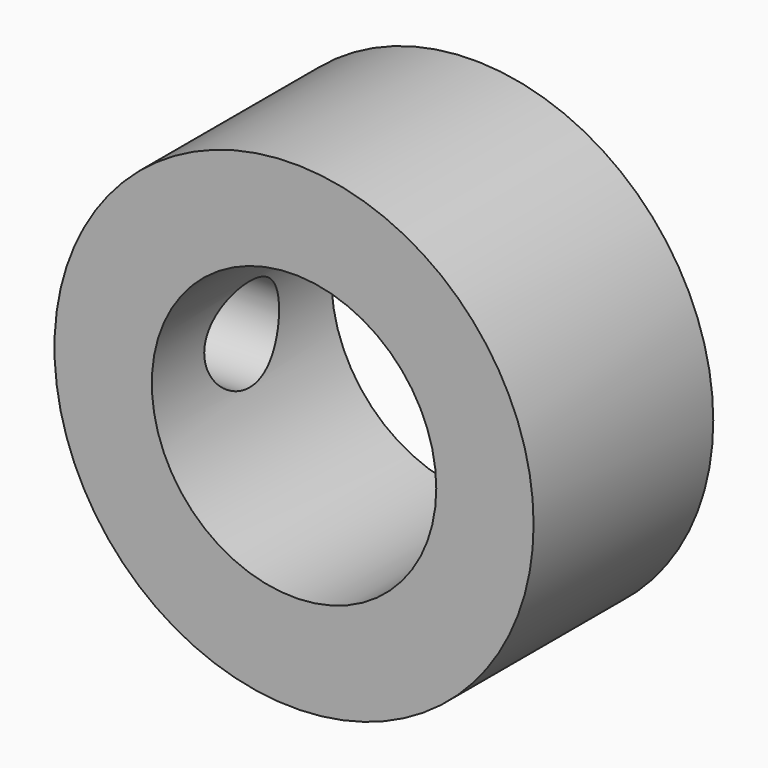
from build123d import *

# Parameters (mm, degrees)
F0_R     = 6.4
F0_R_2   = 3.8
F1_DEPTH = 3
F3_D     = 2.5
F3_DEPTH = 6.401


with BuildPart() as f1:
    # F0 (on Front) → F1 (new body, symmetric)
    with BuildSketch(Plane.XZ):
        Circle(F0_R)
        Circle(F0_R_2, mode=Mode.SUBTRACT)
    extrude(amount=F1_DEPTH, both=True)

    # F3 (through all, one way)
    with BuildSketch(Plane.YZ):
        with Locations((0, 0)):
            Circle(F3_D / 2)
    extrude(amount=-F3_DEPTH, mode=Mode.SUBTRACT)


solid = f1.part
